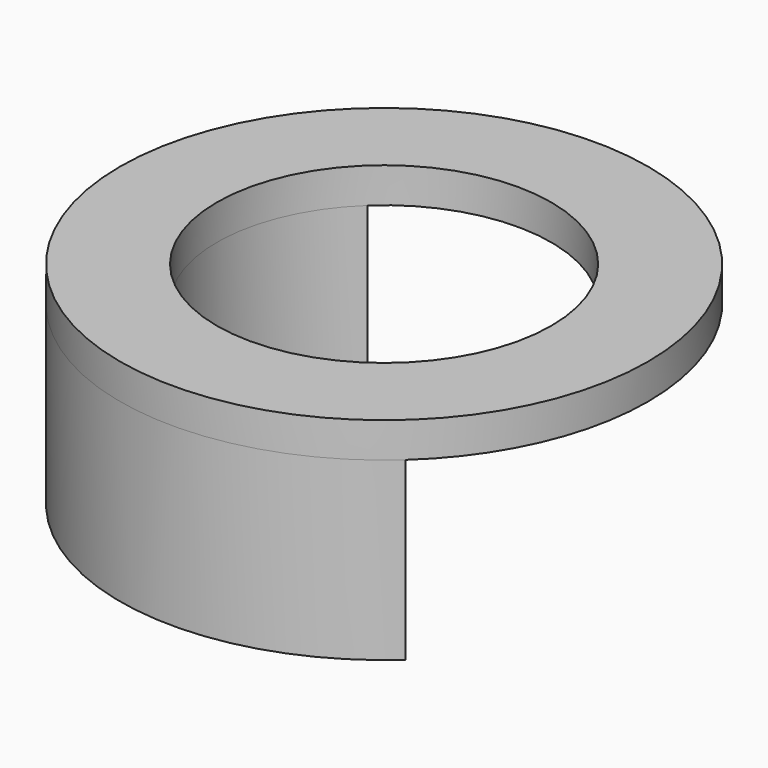
from build123d import *

# Parameters (mm, degrees)
F0_R     = 7.5
F0_R_2   = 4.75
F1_DEPTH = 1
F3_DEPTH = 5


with BuildPart() as f1:
    # F0 (on Top) → F1 (new body)
    with BuildSketch(Plane.XY):
        Circle(F0_R)
        Circle(F0_R_2, mode=Mode.SUBTRACT)
    extrude(amount=F1_DEPTH)

    # F2 (on face) → F3 (join)
    with BuildSketch(Plane(origin=(0, 0, 0), x_dir=(1, 0, 0), z_dir=(0, 0, -1))):
        with BuildLine():
            Line((3.197161, 3.512928), (5.048149, 5.546728))
            ThreePointArc((5.048149, 5.546728), (-5.51377, 5.084126), (-5.119888, -5.480579))
            Line((-5.119888, -5.480579), (-3.242596, -3.471033))
            ThreePointArc((-3.242596, -3.471033), (-3.492054, 3.219947), (3.197161, 3.512928))
        make_face()
    extrude(amount=F3_DEPTH)


solid = f1.part
